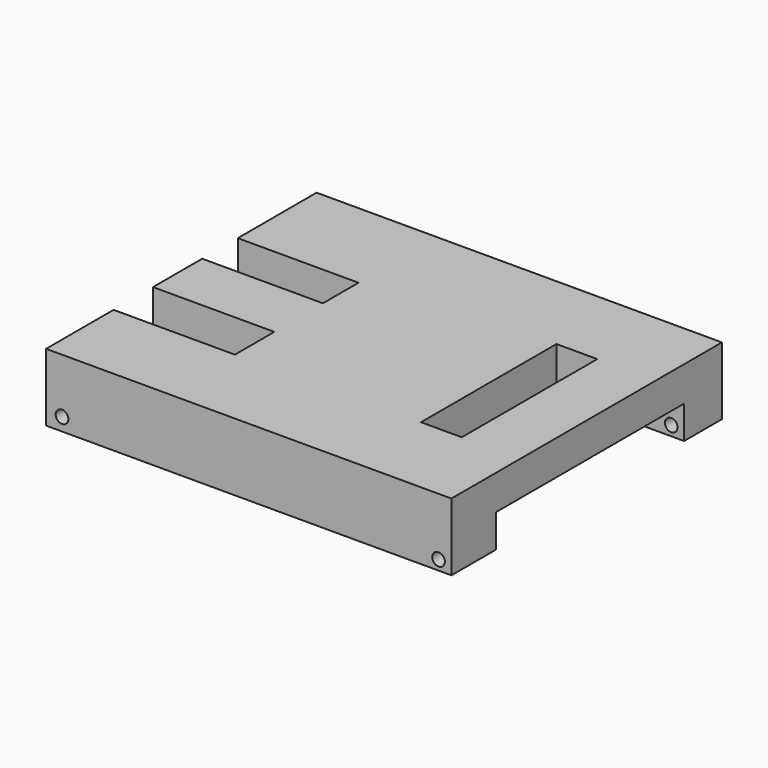
from build123d import *

# Parameters (mm, degrees)
F0_W      = 127
F0_H      = 25.4
F1_DEPTH  = 25.4
F2_DEPTH  = 126.8292367458
F3_W      = 88.223606348
F3_H      = 12.3776346445
F4_DEPTH  = 152.2302367458
F5_R      = 2.38125
F6_DEPTH  = 127.001
F7_R      = 2.38125
F8_DEPTH  = 127.001
F9_W      = 45.556999743
F9_H      = 18.5132399201
F9_W_2    = 45.3319624066
F9_H_2    = 16.7129561305
F9_W_3    = 15.3134018183
F9_H_3    = 63.6049769819
F10_DEPTH = 13.0233653555


with BuildPart() as f1:
    # F0 (on Right) → F1 (new body)
    with BuildSketch(Plane.YZ):
        with Locations((-63.5, 12.7)):
            Rectangle(F0_W, F0_H)
    extrude(amount=F1_DEPTH)

    # F2 (add): a face of the model
    f2_faces = [f1.faces().sort_by_distance(p)[0] for p in [
        (25.4, -63.5, 12.7),
    ]]
    extrude(f2_faces, amount=F2_DEPTH)

    # F3 (on face) → F4 (cut, through all)
    with BuildSketch(Plane.YZ.offset(152.2292367458)):
        with Locations((-61.8745535612, 6.1888173223)):
            Rectangle(F3_W, F3_H)
    extrude(amount=-F4_DEPTH, mode=Mode.SUBTRACT)

    # F5 (on face) → F6 (cut, through all)
    with BuildSketch(Plane.XZ.offset(127)):
        with Locations((147.4088132381, 3.7022531033)):
            Circle(F5_R)
    extrude(amount=-F6_DEPTH, mode=Mode.SUBTRACT)

    # F7 (on face) → F8 (cut, through all)
    with BuildSketch(Plane.XZ.offset(127)):
        with Locations((5.9837484732, 4.8569738865)):
            Circle(F7_R)
    extrude(amount=-F8_DEPTH, mode=Mode.SUBTRACT)

    # F9 (on face) → F10 (cut, through all)
    with BuildSketch(Plane(origin=(0, 0, 12.3776346445), x_dir=(1, 0, 0), z_dir=(0, 0, -1))):
        with Locations((22.7784998715, 86.0507525504)):
            Rectangle(F9_W, F9_H)
        with Locations((22.6659812033, 45.3535504639)):
            Rectangle(F9_W_2, F9_H_2)
        with Locations((122.6406171918, 62.9230011255)):
            Rectangle(F9_W_3, F9_H_3)
    extrude(amount=-F10_DEPTH, mode=Mode.SUBTRACT)


solid = f1.part
